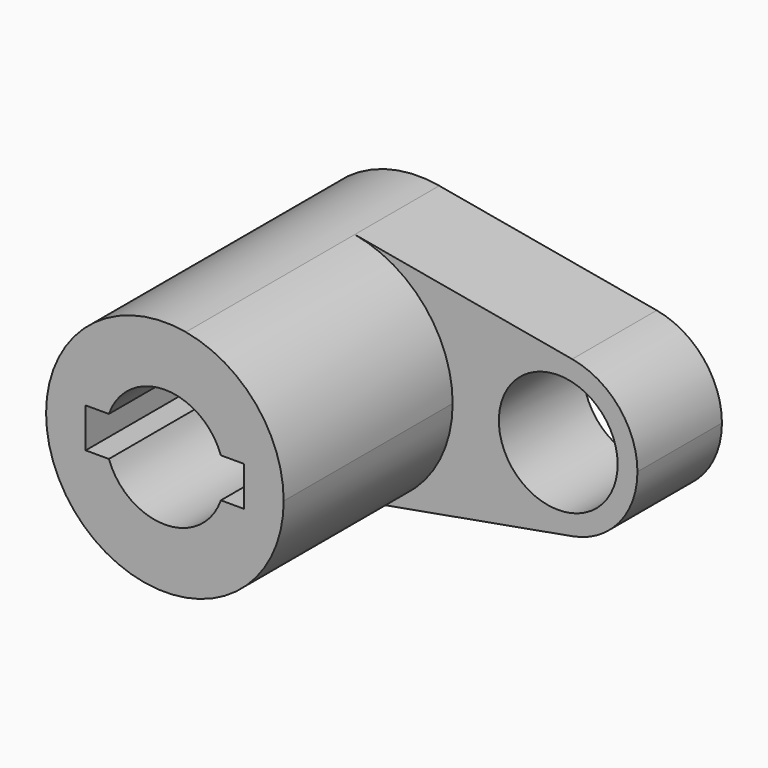
from build123d import *

# Parameters (mm, degrees)
F0_R     = 14.2875
F1_DEPTH = 25.4
F2_DEPTH = 50.8


with BuildPart() as f1:
    # F0 (on Front) → F1 (new body)
    with BuildSketch(Plane.XZ):
        with BuildLine():
            ThreePointArc((5.042647, -28.126541), (21.916025, -18.336262), (28.575, 0))
            ThreePointArc((28.575, 0), (21.916025, 18.336262), (5.042647, 28.126541))
            ThreePointArc((5.042647, 28.126541), (-28.575, 0), (5.042647, -28.126541))
        make_face()
        with BuildLine():
            ThreePointArc((-13.470384, 4.7625), (0, 14.2875), (13.470384, 4.7625))
            Line((13.470384, 4.7625), (19.05, 4.7625))
            Line((19.05, 4.7625), (19.05, -4.7625))
            Line((19.05, -4.7625), (13.470384, -4.7625))
            ThreePointArc((13.470384, -4.7625), (0, -14.2875), (-13.470384, -4.7625))
            Line((-13.470384, -4.7625), (-19.05, -4.7625))
            Line((-19.05, -4.7625), (-19.05, 4.7625))
            Line((-19.05, 4.7625), (-13.470384, 4.7625))
        make_face(mode=Mode.SUBTRACT)
        with BuildLine():
            ThreePointArc((5.042647, 28.126541), (21.916025, 18.336262), (28.575, 0))
            ThreePointArc((28.575, 0), (21.916025, -18.336262), (5.042647, -28.126541))
            Line((5.042647, -28.126541), (57.336765, -18.751028))
            ThreePointArc((57.336765, -18.751028), (34.925, 0), (57.336765, 18.751028))
            Line((57.336765, 18.751028), (5.042647, 28.126541))
        make_face()
        with BuildLine():
            ThreePointArc((73.025, 0), (68.585683, 12.224174), (57.336765, 18.751028))
            ThreePointArc((57.336765, 18.751028), (34.925, 0), (57.336765, -18.751028))
            ThreePointArc((57.336765, -18.751028), (68.585683, -12.224174), (73.025, 0))
        make_face()
        with Locations((53.975, 0)):
            Circle(F0_R, mode=Mode.SUBTRACT)
    extrude(amount=-F1_DEPTH)

    # F0 (on Front) → F2 (join)
    with BuildSketch(Plane.XZ):
        with BuildLine():
            ThreePointArc((5.042647, -28.126541), (21.916025, -18.336262), (28.575, 0))
            ThreePointArc((28.575, 0), (21.916025, 18.336262), (5.042647, 28.126541))
            ThreePointArc((5.042647, 28.126541), (-28.575, 0), (5.042647, -28.126541))
        make_face()
        with BuildLine():
            ThreePointArc((-13.470384, 4.7625), (0, 14.2875), (13.470384, 4.7625))
            Line((13.470384, 4.7625), (19.05, 4.7625))
            Line((19.05, 4.7625), (19.05, -4.7625))
            Line((19.05, -4.7625), (13.470384, -4.7625))
            ThreePointArc((13.470384, -4.7625), (0, -14.2875), (-13.470384, -4.7625))
            Line((-13.470384, -4.7625), (-19.05, -4.7625))
            Line((-19.05, -4.7625), (-19.05, 4.7625))
            Line((-19.05, 4.7625), (-13.470384, 4.7625))
        make_face(mode=Mode.SUBTRACT)
    extrude(amount=F2_DEPTH)


solid = f1.part
